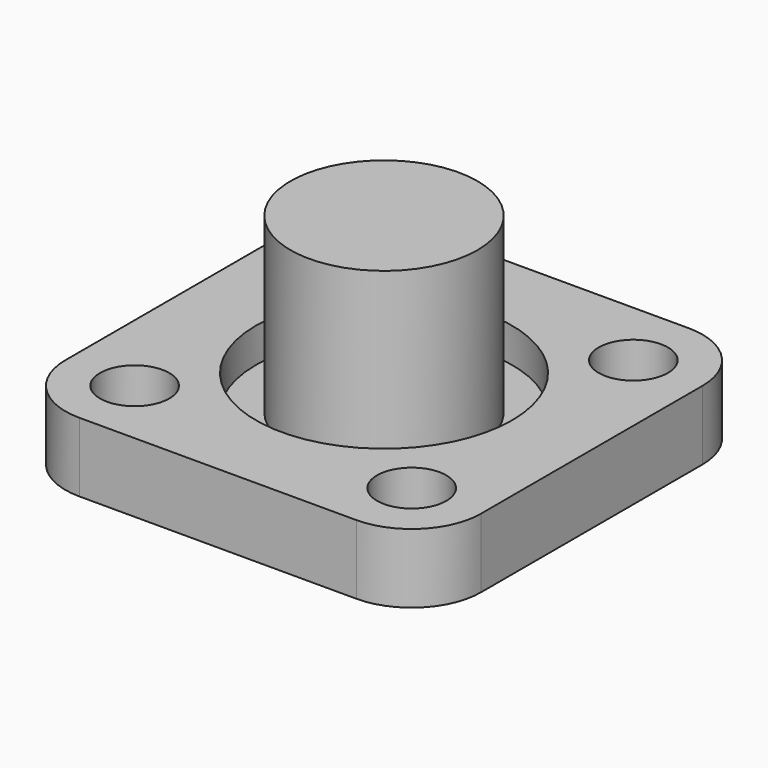
from build123d import *

# Parameters (mm, degrees)
F0_W     = 38.1
F0_H     = 38.1
F1_DEPTH = 6.35
F3_D     = 6.35
F4_R     = 6.35
F5_R     = 8.5725
F6_DEPTH = 12.7
F7_R     = 11.7475
F7_R_2   = 8.5725
F8_DEPTH = 3.175


with BuildPart() as f1:
    # F0 (on Top) → F1 (new body)
    with BuildSketch(Plane.XY):
        Rectangle(F0_W, F0_H)
    extrude(amount=F1_DEPTH)

    # F3 (through all)
    with Locations(Plane.XY.offset(6.35)):
        with Locations((-12.7, 12.7), (-12.7, -12.7), (12.7, -12.7), (12.7, 12.7)):
            Hole(F3_D / 2)

    # F4
    f4_edges = [f1.edges().sort_by_distance(p)[0] for p in [
        (-19.05, -19.05, 3.175),
        (19.05, -19.05, 3.175),
        (19.05, 19.05, 3.175),
        (-19.05, 19.05, 3.175),
    ]]
    fillet(f4_edges, radius=F4_R)

    # F5 (on face) → F6 (join)
    with BuildSketch(Plane.XY.offset(6.35)):
        Circle(F5_R)
    extrude(amount=F6_DEPTH)

    # F7 (on face) → F8 (cut)
    with BuildSketch(Plane.XY.offset(6.35)):
        Circle(F7_R)
        Circle(F7_R_2, mode=Mode.SUBTRACT)
    extrude(amount=-F8_DEPTH, mode=Mode.SUBTRACT)


solid = f1.part
